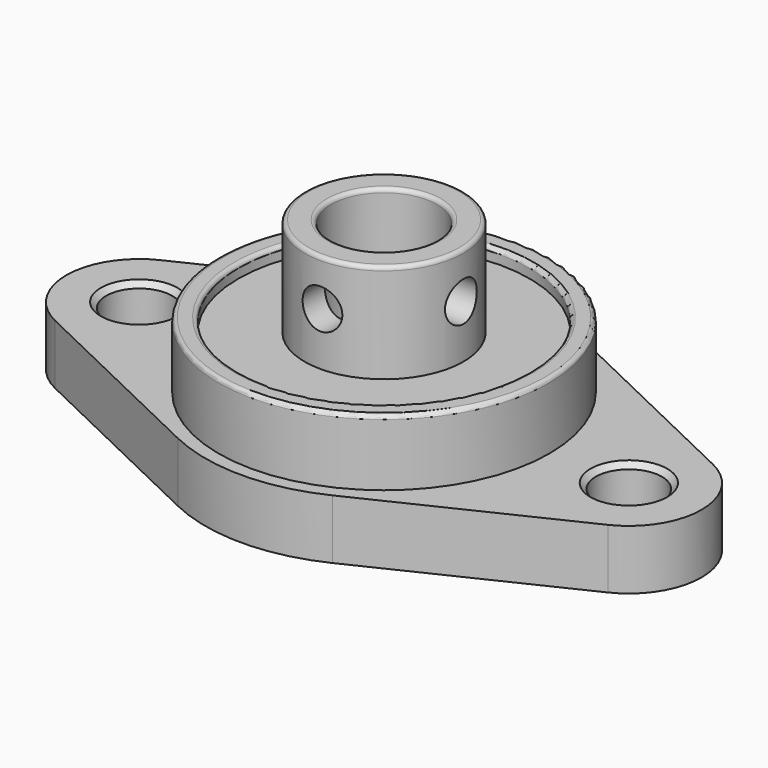
from build123d import *

# Parameters (mm, degrees)
SKETCH_R          = 6
SKETCH_R_2        = 4
PAD_DEPTH         = 16
FILLET001_R       = 0.3
CYLINDER_R        = 1.5
CYLINDER_DEPTH    = 8
CYLINDER001_R     = 1.5
CYLINDER001_DEPTH = 10
SKETCH001_R       = 11
SKETCH001_R_2     = 6
PAD001_DEPTH      = 8.5
SKETCH002_R       = 2.5
SKETCH002_R_2     = 11
PAD002_DEPTH      = 4.5
SKETCH003_R       = 12.5
SKETCH003_R_2     = 11
PAD003_DEPTH      = 5
FILLET_R          = 0.3
CHAMFER_SIZE      = 0.4


with BuildPart() as body:
    # Sketch → Pad (new body)
    with BuildSketch(Plane.XY):
        Circle(SKETCH_R)
        Circle(SKETCH_R_2, mode=Mode.SUBTRACT)
    extrude(amount=PAD_DEPTH)

    # Fillet001
    fillet001_edges = [body.edges().sort_by_distance(p)[0] for p in [
        (-6, 0, 16),
        (-4, 0, 16),
    ]]
    fillet(fillet001_edges, radius=FILLET001_R)

    # Cylinder → Cylinder (cut)
    with BuildSketch(Plane(origin=(0, 0, 12.5), x_dir=(0, 1, 0), z_dir=(1, 0, 0))):
        Circle(CYLINDER_R)
    extrude(amount=CYLINDER_DEPTH, mode=Mode.SUBTRACT)

    # Cylinder001 → Cylinder001 (cut)
    with BuildSketch(Plane(origin=(0, 0, 12.5), x_dir=(1, 0, 0), z_dir=(0, -1, 0))):
        Circle(CYLINDER001_R)
    extrude(amount=CYLINDER001_DEPTH, mode=Mode.SUBTRACT)


with BuildPart() as body001:
    # Sketch001 → Pad001 (new body)
    with BuildSketch(Plane.XY):
        Circle(SKETCH001_R)
        Circle(SKETCH001_R_2, mode=Mode.SUBTRACT)
    extrude(amount=PAD001_DEPTH)


with BuildPart() as body002:
    # Sketch002 → Pad002 (new body)
    with BuildSketch(Plane.XY):
        with BuildLine():
            ThreePointArc((-20.878378, 4.959165), (-24, 0), (-20.878378, -4.959165))
            Line((-20.878378, -4.959165), (-5.837838, -12.172496))
            ThreePointArc((-5.837838, -12.172496), (0, -13.5), (5.837838, -12.172496))
            Line((20.878378, -4.959165), (5.837838, -12.172496))
            ThreePointArc((20.878378, -4.959165), (24, 0), (20.878378, 4.959165))
            Line((5.837838, 12.172496), (20.878378, 4.959165))
            ThreePointArc((5.837838, 12.172496), (0, 13.5), (-5.837838, 12.172496))
            Line((-5.837838, 12.172496), (-20.878378, 4.959165))
        make_face()
        with Locations((-18.5, 0)):
            Circle(SKETCH002_R, mode=Mode.SUBTRACT)
        with Locations((18.5, 0)):
            Circle(SKETCH002_R, mode=Mode.SUBTRACT)
        Circle(SKETCH002_R_2, mode=Mode.SUBTRACT)
    extrude(amount=PAD002_DEPTH)

    # Sketch003 (on Face13 of Pad002) → Pad003 (join)
    with BuildSketch(Plane.XY.offset(4.5)):
        Circle(SKETCH003_R)
        Circle(SKETCH003_R_2, mode=Mode.SUBTRACT)
    extrude(amount=PAD003_DEPTH)

    # Fillet
    fillet_edges = [body002.edges().sort_by_distance(p)[0] for p in [
        (-12.5, 0, 9.5),
        (-11, 0, 9.5),
    ]]
    fillet(fillet_edges, radius=FILLET_R)

    # Chamfer
    chamfer_edges = [body002.edges().sort_by_distance(p)[0] for p in [
        (-21, 0, 4.5),
        (16, 0, 4.5),
        (-21, 0, 0),
        (16, 0, 0),
    ]]
    chamfer(chamfer_edges, length=CHAMFER_SIZE)


solid = Compound([body.part, body001.part, body002.part])
